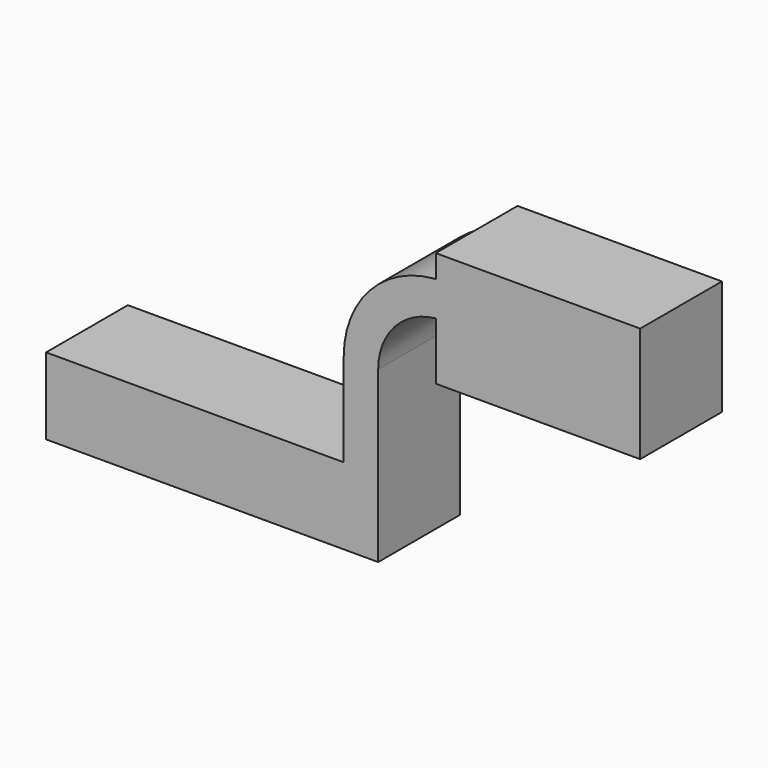
from build123d import *

# Parameters (mm, degrees)
F1_DEPTH = 25.4


with BuildPart() as f1:
    # F0 (on Front) → F1 (new body)
    with BuildSketch(Plane.XZ):
        Polygon((55.58802, 57.024367), (55.58802, 48.454367), (55.58802, 34.166867), (106.38802, 34.166867), (106.38802, 62.741867), (55.58802, 62.741867), align=None)
        with BuildLine():
            Line((32.705, 9.525), (41.275, 9.525))
            Line((41.275, 9.525), (41.275, 32.656397))
            ThreePointArc((41.275, 32.656397), (45.385391, 43.315177), (55.58802, 48.454367))
            Line((55.58802, 48.454367), (55.58802, 57.024367))
            Line((55.58802, 57.024367), (55.210906, 57.024367))
            ThreePointArc((55.210906, 57.024367), (39.192283, 49.241886), (32.705, 32.656397))
            Line((32.705, 32.656397), (32.705, 9.525))
        make_face()
        Polygon((41.275, -9.525), (41.275, 9.525), (32.705, 9.525), (-41.275, 9.525), (-41.275, -9.525), align=None)
    extrude(amount=F1_DEPTH)


solid = f1.part
